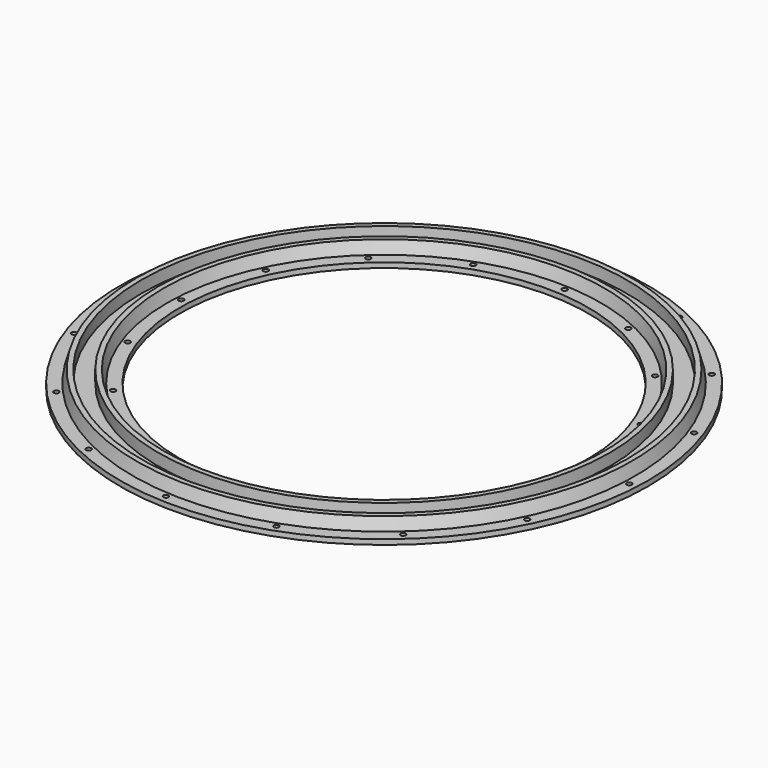
from build123d import *

# Parameters (mm, degrees)
F0_R     = 155
F0_R_2   = 1.5
F0_R_3   = 120
F1_DEPTH = 10
F2_W     = 10.1
F2_H     = 7


with BuildPart() as f1:
    # F0 (on Top) → F1 (new body)
    with BuildSketch(Plane.XY):
        Circle(F0_R)
        with Locations((-111.843296, -100.704156)):
            Circle(F0_R_2, mode=Mode.SUBTRACT)
        with Locations((-92.521531, -83.30676)):
            Circle(F0_R_2, mode=Mode.SUBTRACT)
        with Locations((-64.79192, -135.839085)):
            Circle(F0_R_2, mode=Mode.SUBTRACT)
        with Locations((-7.876561, -150.293745)):
            Circle(F0_R_2, mode=Mode.SUBTRACT)
        with Locations((-6.515827, -124.329377)):
            Circle(F0_R_2, mode=Mode.SUBTRACT)
        with Locations((-53.598632, -112.371868)):
            Circle(F0_R_2, mode=Mode.SUBTRACT)
        with Locations((-141.867544, -50.237932)):
            Circle(F0_R_2, mode=Mode.SUBTRACT)
        with Locations((-117.358866, -41.558954)):
            Circle(F0_R_2, mode=Mode.SUBTRACT)
        with Locations((50.237932, -141.867544)):
            Circle(F0_R_2, mode=Mode.SUBTRACT)
        with Locations((41.558954, -117.358866)):
            Circle(F0_R_2, mode=Mode.SUBTRACT)
        with Locations((100.704156, -111.843296)):
            Circle(F0_R_2, mode=Mode.SUBTRACT)
        with Locations((83.30676, -92.521531)):
            Circle(F0_R_2, mode=Mode.SUBTRACT)
        with Locations((112.371868, -53.598632)):
            Circle(F0_R_2, mode=Mode.SUBTRACT)
        with Locations((135.839085, -64.79192)):
            Circle(F0_R_2, mode=Mode.SUBTRACT)
        with Locations((124.329377, -6.515827)):
            Circle(F0_R_2, mode=Mode.SUBTRACT)
        with Locations((150.293745, -7.876561)):
            Circle(F0_R_2, mode=Mode.SUBTRACT)
        with Locations((-150.293745, 7.876561)):
            Circle(F0_R_2, mode=Mode.SUBTRACT)
        with Locations((-124.329377, 6.515827)):
            Circle(F0_R_2, mode=Mode.SUBTRACT)
        with Locations((-135.839085, 64.79192)):
            Circle(F0_R_2, mode=Mode.SUBTRACT)
        with Locations((-112.371868, 53.598632)):
            Circle(F0_R_2, mode=Mode.SUBTRACT)
        with Locations((-83.30676, 92.521531)):
            Circle(F0_R_2, mode=Mode.SUBTRACT)
        with Locations((-100.704156, 111.843296)):
            Circle(F0_R_2, mode=Mode.SUBTRACT)
        with Locations((-41.558954, 117.358866)):
            Circle(F0_R_2, mode=Mode.SUBTRACT)
        with Locations((-50.237932, 141.867544)):
            Circle(F0_R_2, mode=Mode.SUBTRACT)
        Circle(F0_R_3, mode=Mode.SUBTRACT)
        with Locations((117.358866, 41.558954)):
            Circle(F0_R_2, mode=Mode.SUBTRACT)
        with Locations((141.867544, 50.237932)):
            Circle(F0_R_2, mode=Mode.SUBTRACT)
        with Locations((53.598632, 112.371868)):
            Circle(F0_R_2, mode=Mode.SUBTRACT)
        with Locations((6.515827, 124.329377)):
            Circle(F0_R_2, mode=Mode.SUBTRACT)
        with Locations((7.876561, 150.293745)):
            Circle(F0_R_2, mode=Mode.SUBTRACT)
        with Locations((64.79192, 135.839085)):
            Circle(F0_R_2, mode=Mode.SUBTRACT)
        with Locations((92.521531, 83.30676)):
            Circle(F0_R_2, mode=Mode.SUBTRACT)
        with Locations((111.843296, 100.704156)):
            Circle(F0_R_2, mode=Mode.SUBTRACT)
    extrude(amount=F1_DEPTH)

    # F2 (on Front) → F3 (revolve, cut)
    with BuildSketch(Plane.XZ):
        Polygon((-155, 10), (-155, 3), (-147.55, 3), (-145.55, 10), align=None)
        Polygon((-120, 10), (-129.45, 10), (-127.45, 3), (-120, 3), align=None)
        with Locations((-137.5, 6.5)):
            Rectangle(F2_W, F2_H)
    revolve(axis=Axis((0, 0, 48.400935), (0, 0, 1)), mode=Mode.SUBTRACT)


solid = f1.part
